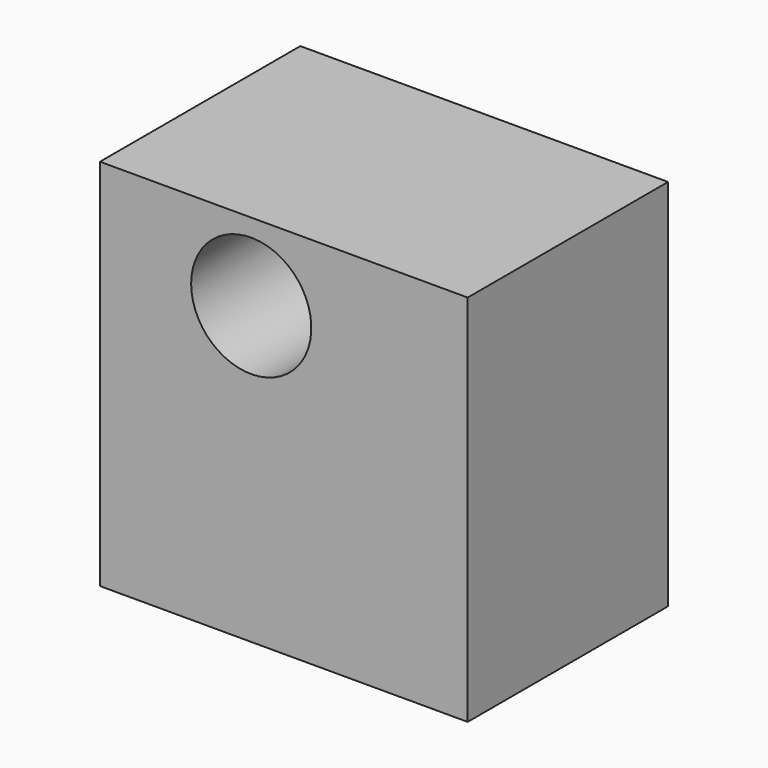
from build123d import *

# Parameters (mm, degrees)
F0_W     = 36.7165654898
F0_H     = 37.3021233827
F1_DEPTH = 25
F3_D     = 12
F3_DEPTH = 15.81
F3_TIP   = 3.6051637142


with BuildPart() as f1:
    # F0 (on Front) → F1 (new body)
    with BuildSketch(Plane.XZ):
        with Locations((-100.3030389547, 27.6219248772)):
            Rectangle(F0_W, F0_H)
    extrude(amount=F1_DEPTH)

    # F3
    with Locations(Plane.XZ.offset(25)):
        with Locations((-103.560000658, 38.5141521692)):
            Hole(F3_D / 2, depth=F3_DEPTH)
            with Locations((0, 0, -(F3_DEPTH + F3_TIP / 2))):  # 118° drill point
                Cone(0, F3_D / 2, F3_TIP, mode=Mode.SUBTRACT)


solid = f1.part
